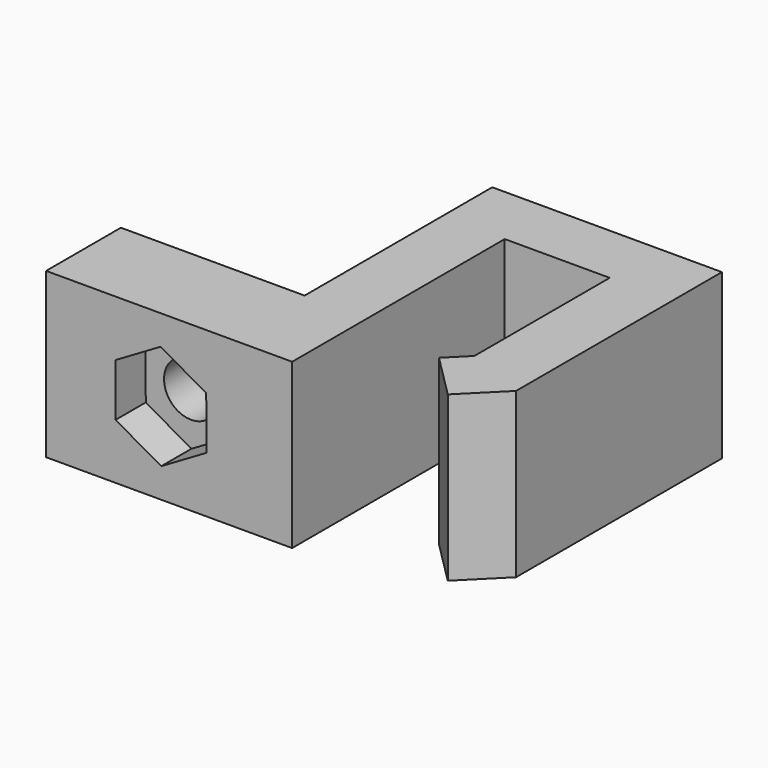
from build123d import *

# Parameters (mm, degrees)
F1_DEPTH = 10
F2_R     = 1.65
F4_DEPTH = 20.001
F5_DEPTH = 2.3


with BuildPart() as f1:
    # F0 (on Top) → F1 (new body)
    with BuildSketch(Plane.XY):
        Polygon((0, 5.7), (0, 0), (15, 0), (15, 16.2), (21.4, 16.2), (21.4, 5.8870057685), (20.2, 4.6870057685), (22.8870057685, 2), (25.2, 4.3129942315), (25.2, 20), (11.2, 20), (11.2, 5.7), align=None)
    extrude(amount=F1_DEPTH)

    # F2 (on face) → F4 (cut, through all)
    with BuildSketch(Plane.XZ):
        with Locations((7, 5)):
            Circle(F2_R)
    extrude(amount=-F4_DEPTH, mode=Mode.SUBTRACT)

    # F2 (on face) → F5 (cut)
    with BuildSketch(Plane.XZ):
        Polygon((6.9812222395, 8.1999449051), (4.2193775412, 6.5837104349), (4.2381553017, 3.3837655298), (7.0187777605, 1.8000550949), (9.7806224588, 3.4162895651), (9.7618446983, 6.6162344702), align=None)
        with Locations((7, 5)):
            Circle(F2_R, mode=Mode.SUBTRACT)
    extrude(amount=-F5_DEPTH, mode=Mode.SUBTRACT)


solid = f1.part
